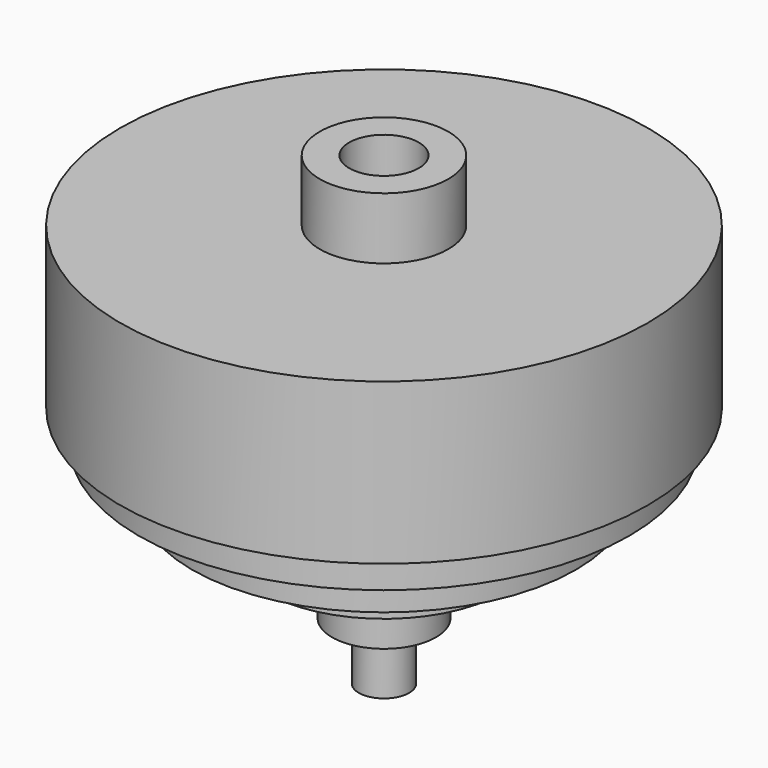
from build123d import *

# Parameters (mm, degrees)
F2_R     = 4.7625
F3_DEPTH = 9.525
F4_R     = 1.5875
F5_DEPTH = 22.225


with BuildPart() as f1:
    # F0 (on Front) → F1 (revolve)
    with BuildSketch(Plane.XZ):
        Polygon((8.793218, 26.10616), (0, 26.10616), (0, -37.513819), (3.444635, -37.513819), (3.444635, -29.631697), (7.104192, -29.631697), (7.104192, -21.186566), (16.393835, -21.186566), (16.393835, -15.274976), (26.246486, -15.274976), (26.246486, -8.800376), (33.565599, -8.800376), (33.565599, -4.296307), (36.099136, -4.296307), (36.099136, 17.661031), (8.793218, 17.661031), align=None)
    revolve(axis=Axis((0, 0, -5.703829), (0, 0, 1)))

    # F2 (on face) → F3 (cut)
    with BuildSketch(Plane.XY.offset(26.10616)):
        Circle(F2_R)
    extrude(amount=-F3_DEPTH, mode=Mode.SUBTRACT)

    # F4 (on face) → F5 (cut)
    with BuildSketch(Plane(origin=(0, 0, -37.513819), x_dir=(1, 0, 0), z_dir=(0, 0, -1))):
        Circle(F4_R)
    extrude(amount=-F5_DEPTH, mode=Mode.SUBTRACT)


solid = f1.part
